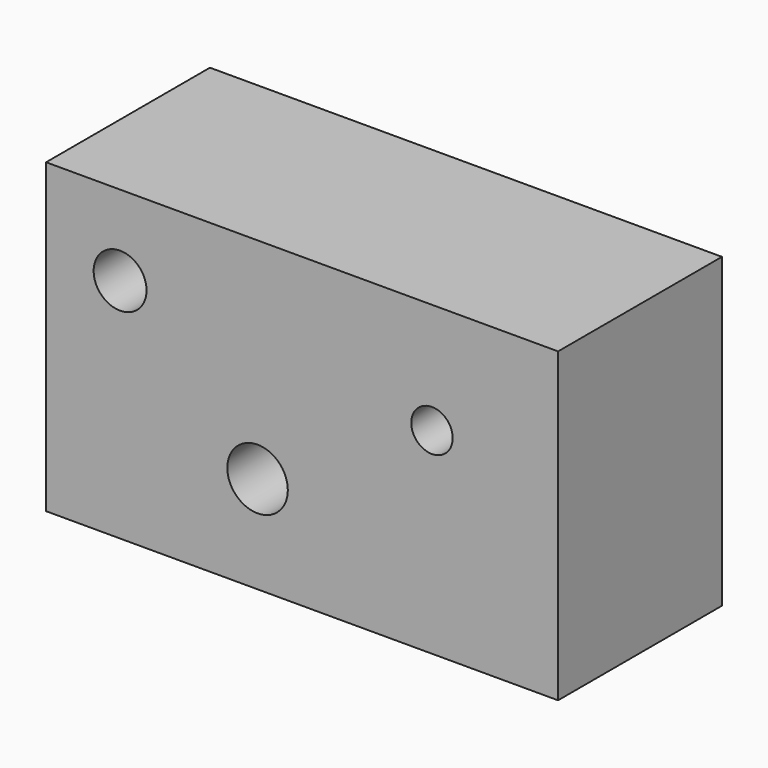
from build123d import *

# Parameters (mm, degrees)
F0_W     = 127
F0_H     = 76.2
F1_DEPTH = 25.4
F2_R     = 6.561773
F2_R_2   = 5.142621
F2_R_3   = 7.50566
F3_DEPTH = 50.801


with BuildPart() as f1:
    # F0 (on Front) → F1 (new body, symmetric)
    with BuildSketch(Plane.XZ):
        Rectangle(F0_W, F0_H)
    extrude(amount=F1_DEPTH, both=True)

    # F2 (on face) → F3 (cut, through all)
    with BuildSketch(Plane.XZ.offset(25.4)):
        with Locations((-45.138966, 18.212138)):
            Circle(F2_R)
        with Locations((32.218039, 10.651827)):
            Circle(F2_R_2)
        with Locations((-11.041803, -14.003041)):
            Circle(F2_R_3)
    extrude(amount=-F3_DEPTH, mode=Mode.SUBTRACT)


solid = f1.part
